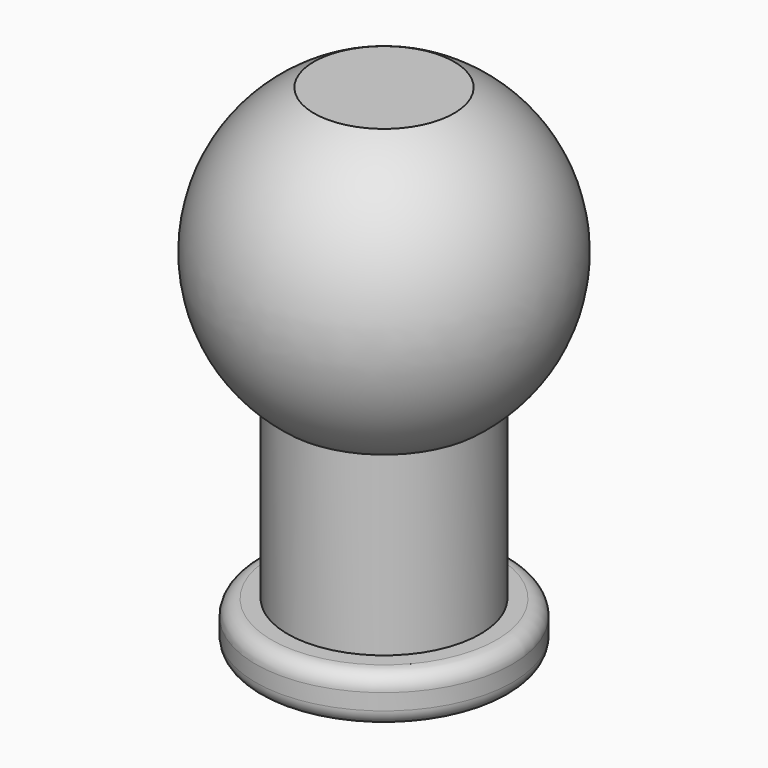
from build123d import *

# Parameters (mm, degrees)
F2_R = 0.5


with BuildPart() as f1:
    # F0 (on Right) → F1 (revolve)
    with BuildSketch(Plane.YZ):
        with BuildLine():
            Line((0, 4.5), (-2.179449, 4.5))
            ThreePointArc((-2.179449, 4.5), (-4.976864, 0.480443), (-3, -4))
            Line((-3, -4), (-3, -5))
            Line((-3, -5), (-3, -9.5))
            Line((-3, -9.5), (-4, -9.5))
            Line((-4, -9.5), (-4, -11))
            Line((-4, -11), (0, -11))
            Line((0, -11), (0, 4.5))
        make_face()
    revolve(axis=Axis((0, 0, -3.25), (0, 0, 1)))

    # F2
    f2_edges = [f1.edges().sort_by_distance(p)[0] for p in [
        (0, 4, -9.5),
        (0, 4, -11),
        (0, -4, -10.25),
    ]]
    fillet(f2_edges, radius=F2_R)


solid = f1.part
